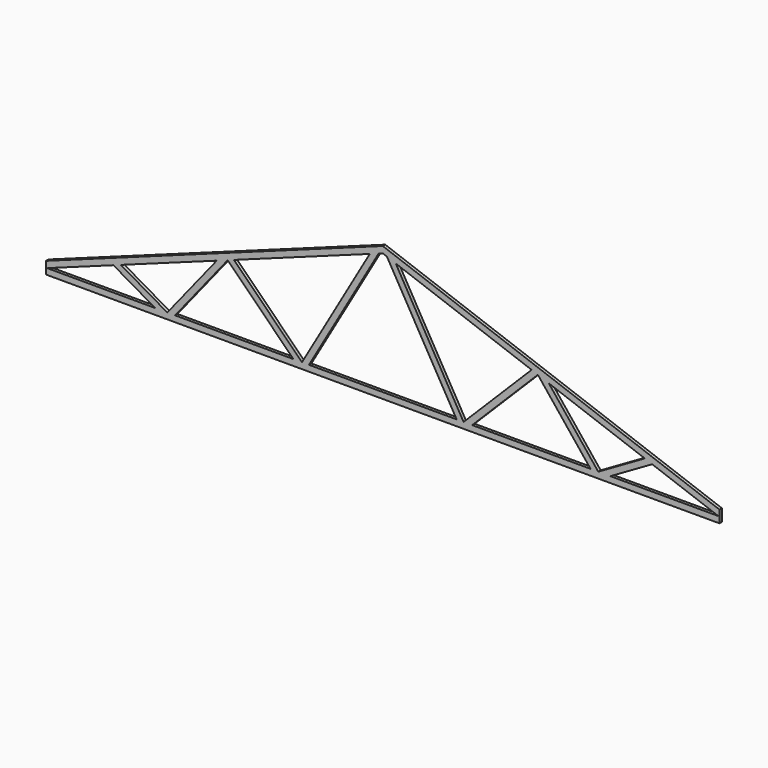
from build123d import *

# Parameters (mm, degrees)
F1_DEPTH  = 22.5
F1_FACE_W = 10000
F1_FACE_H = 45
F2_DEPTH  = 180
F4_DEPTH  = 45.001


with BuildPart() as f1:
    # F0 (on Front) → F1 (new body, symmetric)
    with BuildSketch(Plane.XZ):
        Polygon((0, 1819.851171), (-5000, 0), (5000, 0), align=None)
    extrude(amount=F1_DEPTH, both=True)

    # F1_face (on face) → F2 (join)
    with BuildSketch(Plane(origin=(0, 0, 0), x_dir=(1, 0, 0), z_dir=(0, 0, -1))):
        Rectangle(F1_FACE_W, F1_FACE_H)
    extrude(amount=F2_DEPTH)

    # F3 (on face) → F4 (cut, through all)
    with BuildSketch(Plane.XZ.offset(22.5)):
        Polygon((-4000.251944, 268.102574), (-4984.13068, -90), (-3380.000091, -90), align=None)
        Polygon((-1200, -90), (-193.253061, 1653.736849), (-2209.780782, 919.780782), align=None)
        Polygon((0, 1724.075211), (-61.681863, 1701.624849), (-1096.076952, -90), (1096.076952, -90), (61.681863, 1701.624849), align=None)
        Polygon((-3084.689586, -90), (-1327.279267, -90), (-2303.096064, 885.816797), align=None)
        Polygon((3200, -90), (3889.850544, 308.285397), (2465.855105, 826.577351), align=None)
        Polygon((1200, -90), (2209.780782, 919.780782), (193.253061, 1653.736849), align=None)
        Polygon((2303.096064, 885.816797), (1327.279267, -90), (3084.689586, -90), align=None)
        Polygon((3380.000091, -90), (4984.13068, -90), (4000.251944, 268.102574), align=None)
        Polygon((-3889.850544, 308.285397), (-3200, -90), (-2465.855105, 826.577351), align=None)
    extrude(amount=-F4_DEPTH, mode=Mode.SUBTRACT)


solid = f1.part
